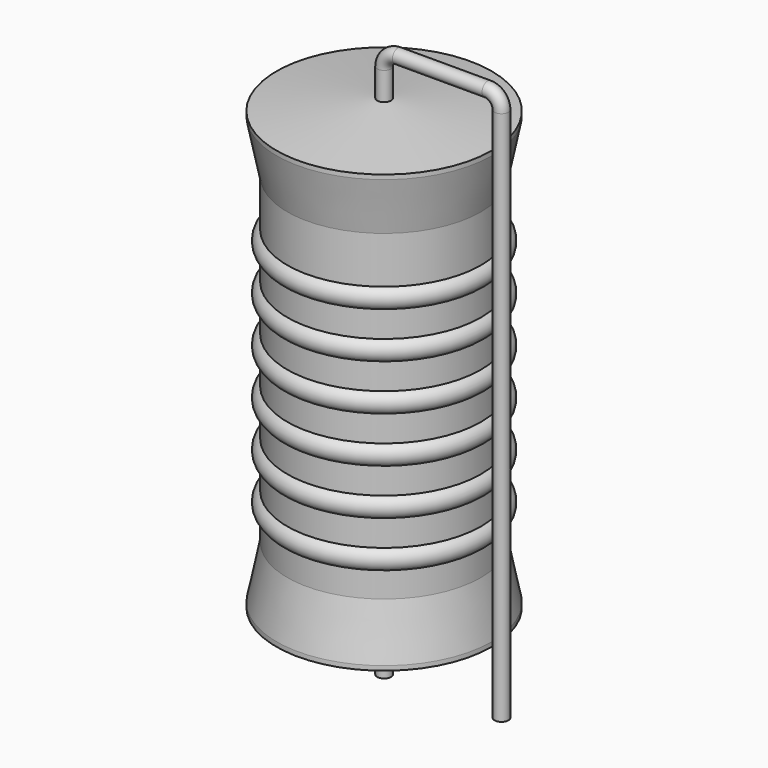
from build123d import *

# Parameters (mm, degrees)
SKETCH_R = 0.45


with BuildPart() as sweep_body:
    # Sweep: sweep along a path in Sketch001
    with BuildLine(Plane.XZ) as sweep_path:
        Line((0, -3), (0, 31.75))
        ThreePointArc((0, 31.75), (0.2636, 32.386392), (0.899988, 32.65))
        Line((0.899988, 32.65), (6.72, 32.65))
        ThreePointArc((6.72, 32.65), (7.356396, 32.386396), (7.62, 31.75))
        Line((7.62, 31.75), (7.62, -3))
    # Sketch → Sweep (sweep)
    with BuildSketch(Plane.XY.offset(-2)):
        Circle(SKETCH_R)
    sweep(path=sweep_path.line)


with BuildPart() as revolution:
    # Sketch002 → Revolution (revolve)
    with BuildSketch(Plane.XZ):
        Polygon((0, 0.1), (0, 29.95), (0.3375, 29.95), (6.985, 29.20375), (6.985, 28.91125), (6.2865, 25.4725), (6.2865, 4.5775), (6.985, 1.13875), (6.985, 0.84625), (0.3375, 0.1), align=None)
    revolve(axis=Axis((0, 0, 0), (0, 0, 1)))


with BuildPart() as revolution001:
    # Sketch003 → Revolution001 (revolve)
    with BuildSketch(Plane.XZ):
        with BuildLine():
            Line((5.588, 24.0755), (5.588, 4.5775))
            Line((5.588, 4.5775), (6.0071, 4.5775))
            Line((6.0071, 4.5775), (6.0071, 6.1655))
            ThreePointArc((6.0071, 6.1655), (6.7056, 6.864), (6.0071, 7.5625))
            Line((6.0071, 7.5625), (6.0071, 9.1505))
            ThreePointArc((6.0071, 9.1505), (6.7056, 9.849), (6.0071, 10.5475))
            Line((6.0071, 10.5475), (6.0071, 12.1355))
            ThreePointArc((6.0071, 12.1355), (6.7056, 12.834), (6.0071, 13.5325))
            Line((6.0071, 13.5325), (6.0071, 15.1205))
            ThreePointArc((6.0071, 15.1205), (6.7056, 15.819), (6.0071, 16.5175))
            Line((6.0071, 16.5175), (6.0071, 18.1055))
            ThreePointArc((6.0071, 18.1055), (6.7056, 18.804), (6.0071, 19.5025))
            Line((6.0071, 19.5025), (6.0071, 21.0905))
            ThreePointArc((6.0071, 21.0905), (6.7056, 21.789), (6.0071, 22.4875))
            Line((6.0071, 24.0755), (6.0071, 22.4875))
            Line((5.588, 24.0755), (6.0071, 24.0755))
        make_face()
    revolve(axis=Axis((0, 0, 0), (0, 0, 1)))


solid = Compound([sweep_body.part, revolution.part, revolution001.part])
